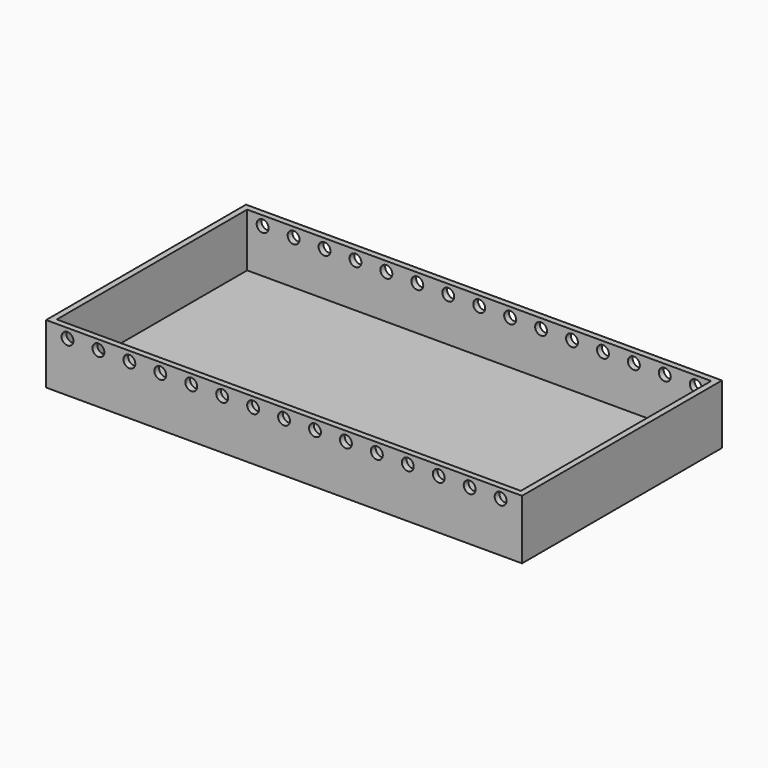
from build123d import *

# Parameters (mm, degrees)
F0_W     = 200
F0_H     = 105
F1_DEPTH = 25
F2_T     = -2.5
F3_R     = 2.5
F4_DEPTH = 105


with BuildPart() as f1:
    # F0 (on Top) → F1 (new body)
    with BuildSketch(Plane.XY):
        Rectangle(F0_W, F0_H)
    extrude(amount=F1_DEPTH)

    # F2
    f2_openings = [f1.faces().sort_by_distance(p)[0] for p in [
        (0, 0, 25),
    ]]
    offset(amount=F2_T, openings=f2_openings)

    # F3 (on face) → F4 (cut, through all)
    with BuildSketch(Plane.XZ.offset(52.5)):
        with Locations((-91, 21)):
            Circle(F3_R)
        with Locations((-78, 21)):
            Circle(F3_R)
        with Locations((-65, 21)):
            Circle(F3_R)
        with Locations((-52, 21)):
            Circle(F3_R)
        with Locations((-39, 21)):
            Circle(F3_R)
        with Locations((-26, 21)):
            Circle(F3_R)
        with Locations((-13, 21)):
            Circle(F3_R)
        with Locations((0, 21)):
            Circle(F3_R)
        with Locations((13, 21)):
            Circle(F3_R)
        with Locations((26, 21)):
            Circle(F3_R)
        with Locations((39, 21)):
            Circle(F3_R)
        with Locations((52, 21)):
            Circle(F3_R)
        with Locations((65, 21)):
            Circle(F3_R)
        with Locations((78, 21)):
            Circle(F3_R)
        with Locations((91, 21)):
            Circle(F3_R)
    extrude(amount=-F4_DEPTH, mode=Mode.SUBTRACT)


solid = f1.part
